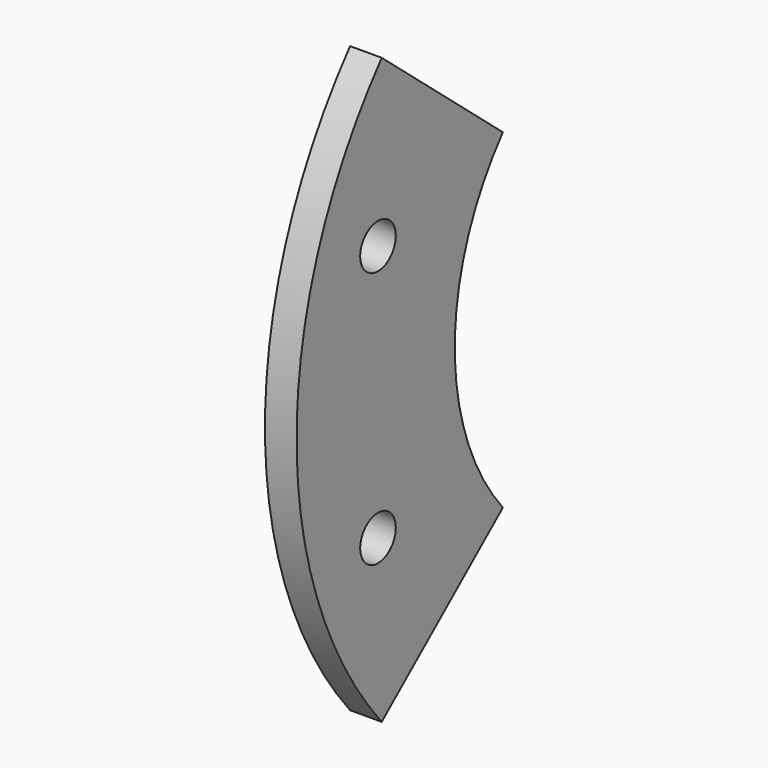
from build123d import *

# Parameters (mm, degrees)
F0_R     = 2.25
F1_DEPTH = 3.2


with BuildPart() as f1:
    # F0 (on Right) → F1 (new body)
    with BuildSketch(Plane.YZ):
        with BuildLine():
            ThreePointArc((-19.917156, -16.712478), (-26, 0), (-19.917156, 16.712478))
            Line((-19.917156, 16.712478), (-35.238044, 29.56823))
            ThreePointArc((-35.238044, 29.56823), (-46, 0), (-35.238044, -29.56823))
            Line((-35.238044, -29.56823), (-19.917156, -16.712478))
        make_face()
        with Locations((-35.70832, -12.996765)):
            Circle(F0_R, mode=Mode.SUBTRACT)
        with Locations((-35.70832, 12.996765)):
            Circle(F0_R, mode=Mode.SUBTRACT)
    extrude(amount=F1_DEPTH)


solid = f1.part
